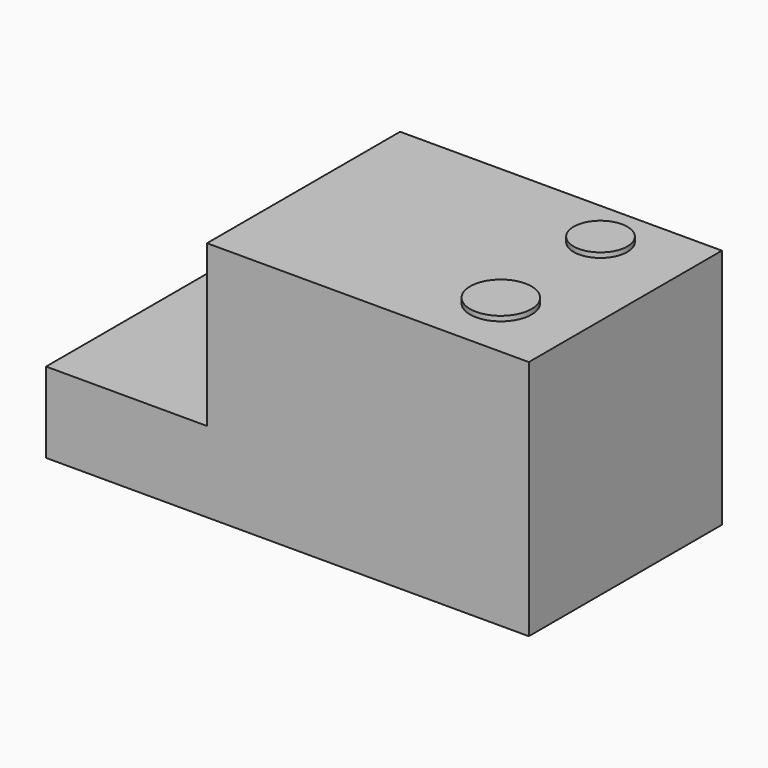
from build123d import *

# Parameters (mm, degrees)
F0_W     = 50.8
F0_H     = 25.4
F1_DEPTH = 76.2
F2_R     = 8.470236
F2_R_2   = 9.697793
F3_DEPTH = 71.374


with BuildPart() as f1:
    # F0 (on Front) → F1 (new body)
    with BuildSketch(Plane.XZ):
        with Locations((-71.580393, 6.330572)):
            Rectangle(F0_W, F0_H)
        Polygon((-46.180393, 19.030572), (-46.180393, -6.369428), (55.419607, -6.369428), (55.419607, 69.830572), (-46.180393, 69.830572), align=None)
    extrude(amount=F1_DEPTH)

    # F2 (on Top) → F3 (join)
    with BuildSketch(Plane.XY):
        with Locations((29.198436, -15.151555)):
            Circle(F2_R)
        with Locations((30.406078, -55.976909)):
            Circle(F2_R_2)
    extrude(amount=F3_DEPTH)


solid = f1.part
